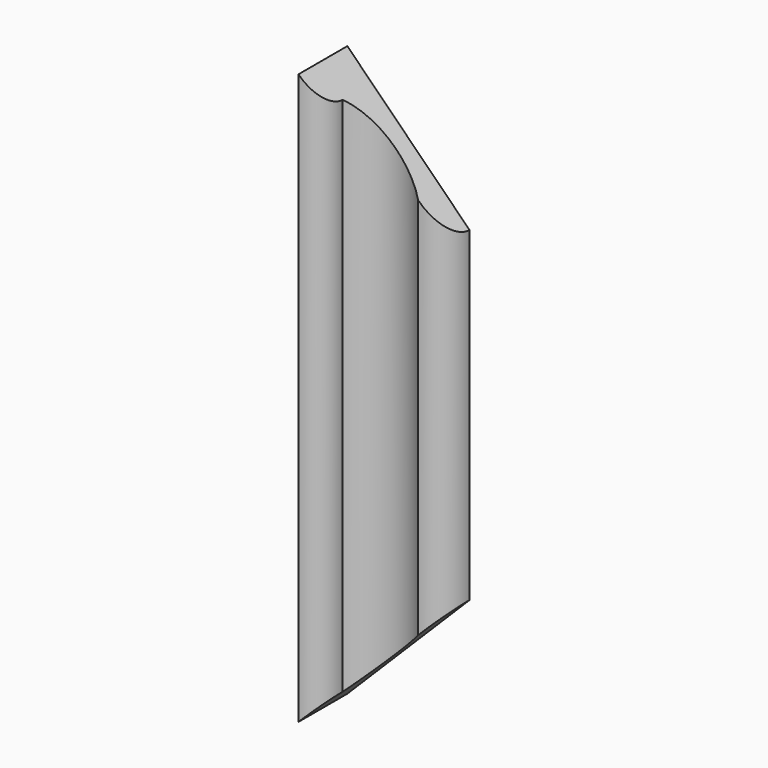
from build123d import *

# Parameters (mm, degrees)
PAD011_DEPTH = 40
PAD010_DEPTH = 40
PAD009_DEPTH = 140


with BuildPart() as body_decoration_left_cut_top:
    # Sketch011 → Pad011 (new body)
    with BuildSketch(Plane(origin=(4, -18, 140), x_dir=(1, 0, 0), z_dir=(0, -1, 0))):
        Polygon((0, 0), (40, -40), (40, 0), align=None)
    extrude(amount=PAD011_DEPTH)


with BuildPart() as body_decoration_left_cut_bottom:
    # Sketch010 → Pad010 (new body)
    with BuildSketch(Plane(origin=(4, -18, 0), x_dir=(1, 0, 0), z_dir=(0, -1, 0))):
        Polygon((0, 0), (40, 40), (40, 0), align=None)
    extrude(amount=PAD010_DEPTH)


with BuildPart() as cut_decoration_left:
    # Sketch009 → Pad009 (new body)
    with BuildSketch(Plane(origin=(4, -18, 0), x_dir=(1, 0, 0), z_dir=(0, 0, 1))):
        with BuildLine():
            Line((30, 0), (0, 0))
            Line((0, -15), (0, 0))
            ThreePointArc((0, -15), (4.242641, -13.242641), (6, -9))
            ThreePointArc((23, -7), (14.080692, -4.435882), (6, -9))
            ThreePointArc((23, -7), (27.949747, -4.949747), (30, 0))
        make_face()
    extrude(amount=PAD009_DEPTH)

    # Cut002: cut Body, Decoration, Left, Cut, Bottom
    add(body_decoration_left_cut_bottom.part, mode=Mode.SUBTRACT)

    # Cut003: cut Body, Decoration, Left, Cut, Top
    add(body_decoration_left_cut_top.part, mode=Mode.SUBTRACT)


solid = cut_decoration_left.part
